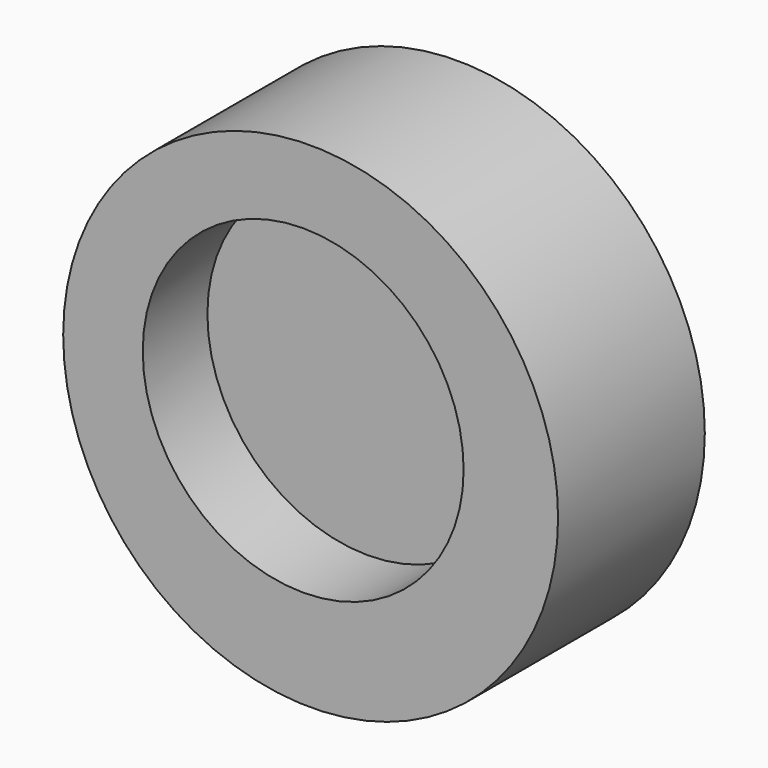
from build123d import *

# Parameters (mm, degrees)
F0_R      = 48.999034
F1_DEPTH  = 50.8
F1_FACE_R = 48.999034
F2_DEPTH  = 14.478
F3_R      = 31.768864
F4_DEPTH  = 16.002


with BuildPart() as f1:
    # F0 (on Front) → F1 (new body)
    with BuildSketch(Plane.XZ):
        with Locations((-15.113131, 20.701002)):
            Circle(F0_R)
    extrude(amount=F1_DEPTH)

    # F1_face (on face) → F2 (cut)
    with BuildSketch(Plane(origin=(-15.113131, -50.8, 20.701002), x_dir=(1, 0, 0), z_dir=(0, -1, 0))):
        Circle(F1_FACE_R)
    extrude(amount=-F2_DEPTH, mode=Mode.SUBTRACT)

    # F3 (on face) → F4 (cut)
    with BuildSketch(Plane.XZ.offset(36.322)):
        with Locations((-16.587488, 23.004033)):
            Circle(F3_R)
    extrude(amount=-F4_DEPTH, mode=Mode.SUBTRACT)


solid = f1.part
